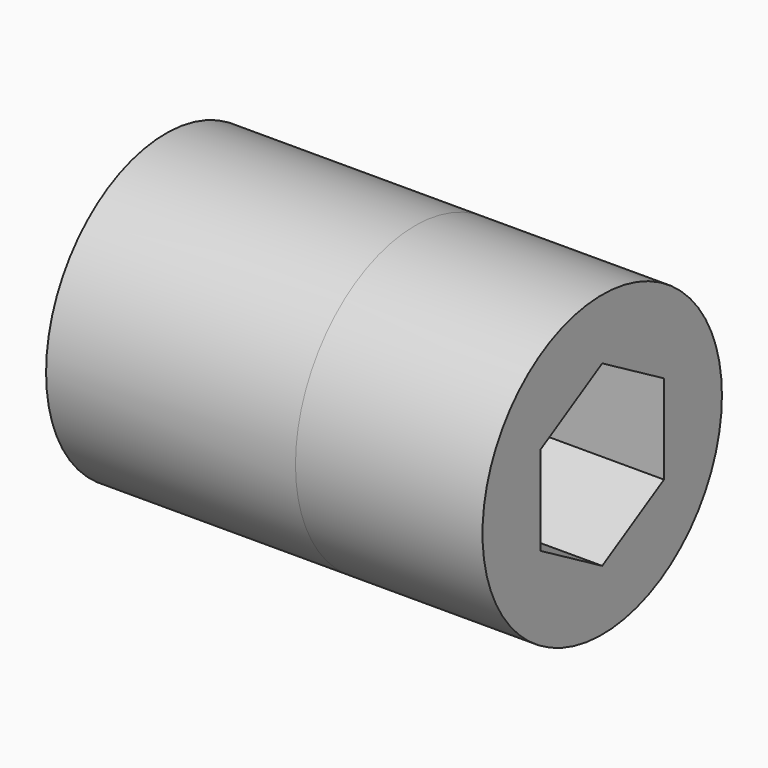
from build123d import *

# Parameters (mm, degrees)
F0_R     = 12
F1_DEPTH = 10
F2_DEPTH = 5
F3_R     = 12
F3_W     = 5.38
F3_H     = 5.38
F4_DEPTH = 20


with BuildPart() as f1:
    # F0 (on Right) → F1 (new body)
    with BuildSketch(Plane.YZ):
        Circle(F0_R)
        Polygon((0, 7.147596), (6.19, 3.573798), (6.19, -3.573798), (0, -7.147596), (-6.19, -3.573798), (-6.19, 3.573798), align=None, mode=Mode.SUBTRACT)
    extrude(amount=F1_DEPTH)

    # F0 (on Right) → F2 (join)
    with BuildSketch(Plane.YZ):
        Circle(F0_R)
        Polygon((0, 7.147596), (6.19, 3.573798), (6.19, -3.573798), (0, -7.147596), (-6.19, -3.573798), (-6.19, 3.573798), align=None, mode=Mode.SUBTRACT)
        Polygon((6.19, -3.573798), (6.19, 3.573798), (0, 7.147596), (-6.19, 3.573798), (-6.19, -3.573798), (0, -7.147596), align=None)
    extrude(amount=-F2_DEPTH)

    # F3 (on face) → F4 (join)
    with BuildSketch(Plane(origin=(-5, 0, 0), x_dir=(0, -1, 0), z_dir=(-1, 0, 0))):
        Circle(F3_R)
        Rectangle(F3_W, F3_H, mode=Mode.SUBTRACT)
    extrude(amount=F4_DEPTH)


solid = f1.part
